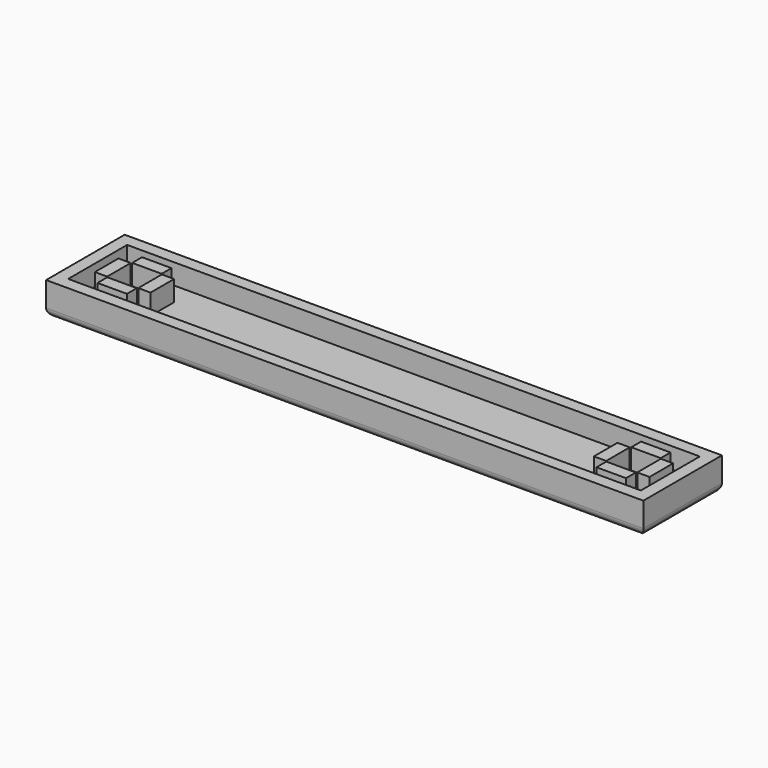
from build123d import *

# Parameters (mm, degrees)
SKETCH_W      = 36.48
SKETCH_H      = 12
PAD_DEPTH     = 1.5
PAD001_DEPTH  = 2.5
SKETCH002_W   = 3.6
SKETCH002_H   = 1.5
SKETCH002_W_2 = 1.5
SKETCH002_H_2 = 3.6
PAD002_DEPTH  = 4
FILLET_R      = 1


with BuildPart() as part:
    # Sketch → Pad (new body)
    with BuildSketch(Plane.XY):
        with Locations((-18.24, 0)):
            Rectangle(SKETCH_W, SKETCH_H)
    pad = extrude(amount=PAD_DEPTH)

    # Sketch001 → Pad001 (join)
    with BuildSketch(Plane.XY.offset(1.5)):
        Polygon((-36.48, 6), (0, 6), (0, 4.5), (-34.98, 4.5), (-34.98, -4.5), (0, -4.5), (0, -6), (-36.48, -6), align=None)
    pad001 = extrude(amount=PAD001_DEPTH)

    # Sketch002 → Pad002 (join)
    with BuildSketch(Plane.XY):
        with Locations((-30.48, 2.65)):
            Rectangle(SKETCH002_W, SKETCH002_H)
        with Locations((-30.48, -2.65)):
            Rectangle(SKETCH002_W, SKETCH002_H)
        with Locations((-33.13, 0)):
            Rectangle(SKETCH002_W_2, SKETCH002_H_2)
        with Locations((-27.83, 0)):
            Rectangle(SKETCH002_W_2, SKETCH002_H_2)
    pad002 = extrude(amount=PAD002_DEPTH)

    # Mirrored: Pad across Sketch V_Axis
    add(pad.mirror(Plane(origin=(0, 0, 0), x_dir=(0, 0, 1), z_dir=(1, 0, 0))))

    # Mirrored001: Pad002 across Sketch002 V_Axis
    add(pad002.mirror(Plane(origin=(0, 0, 0), x_dir=(0, 0, 1), z_dir=(1, 0, 0))))

    # Mirrored002: Pad001 across Sketch001 V_Axis
    add(pad001.mirror(Plane(origin=(0, 0, 1.5), x_dir=(0, 0, 1), z_dir=(1, 0, 0))))

    # Fillet
    fillet_edges = [part.edges().sort_by_distance(p)[0] for p in [
        (36.48, 0, 0),
        (0, -6, 0),
        (-36.48, 0, 0),
        (0, 6, 0),
    ]]
    fillet(fillet_edges, radius=FILLET_R)


solid = part.part
